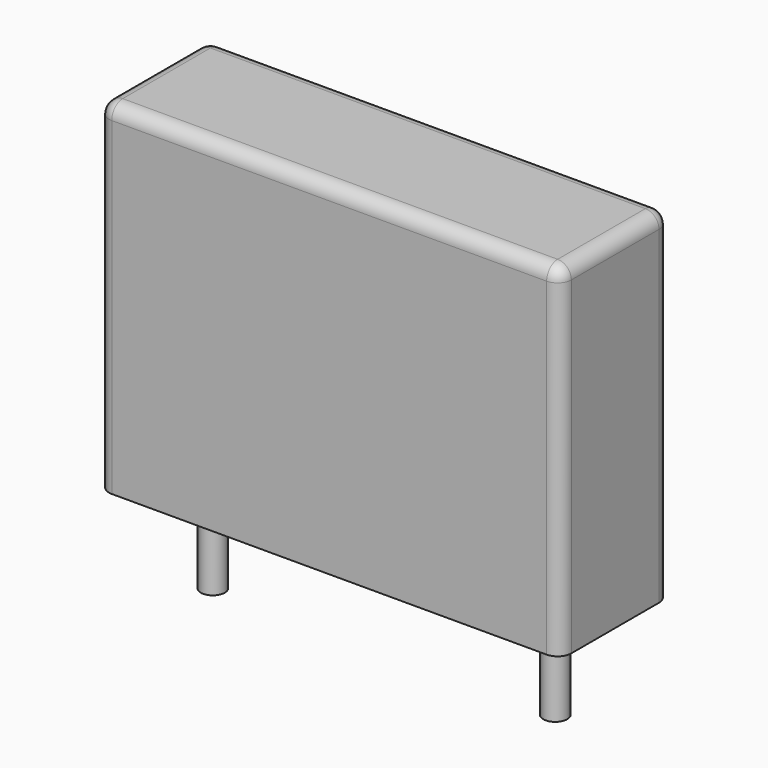
from build123d import *

# Parameters (mm, degrees)
SKETCH_W     = 13.5
SKETCH_H     = 4
PAD_DEPTH    = 10
FILLET_R     = 0.4
SKETCH001_R  = 0.35
PAD001_DEPTH = 3.2


with BuildPart() as fillet_body:
    # Sketch → Pad (new body)
    with BuildSketch(Plane.XY.offset(0.1)):
        with Locations((5, 0)):
            Rectangle(SKETCH_W, SKETCH_H)
    extrude(amount=PAD_DEPTH)

    # Fillet
    fillet_edges = [fillet_body.edges().sort_by_distance(p)[0] for p in [
        (-1.75, 0, 10.1),
        (-1.75, -2, 5.1),
        (5, -2, 10.1),
        (11.75, -2, 5.1),
        (11.75, 0, 10.1),
        (11.75, 2, 5.1),
        (5, 2, 10.1),
        (-1.75, 2, 5.1),
    ]]
    fillet(fillet_edges, radius=FILLET_R)


with BuildPart() as pad001:
    # Sketch001 → Pad001 (new body)
    with BuildSketch(Plane.XY.offset(0.5)):
        Circle(SKETCH001_R)
        with Locations((10, 0)):
            Circle(SKETCH001_R)
    extrude(amount=-PAD001_DEPTH)


solid = Compound([fillet_body.part, pad001.part])
